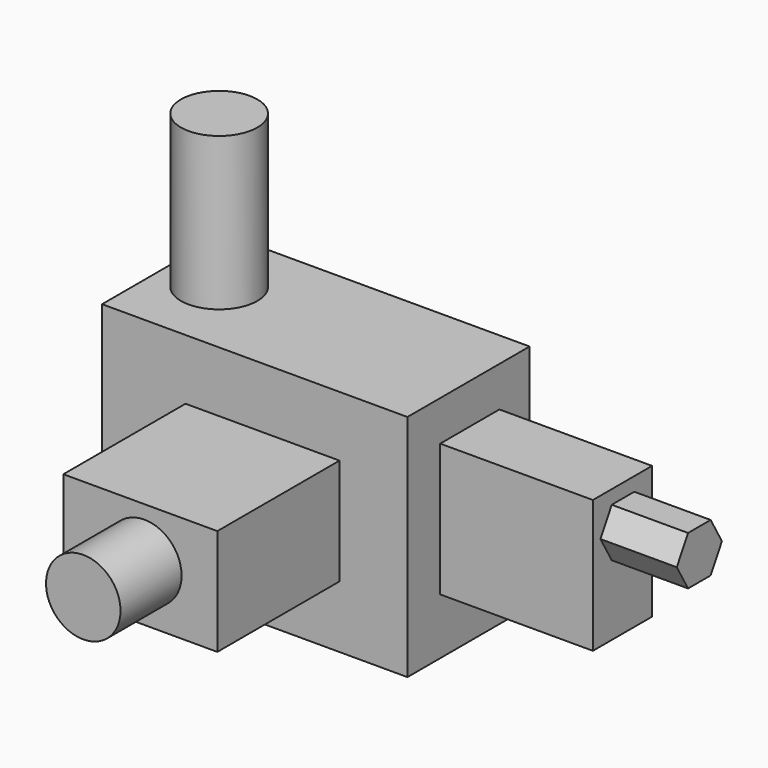
from build123d import *

# Parameters (mm, degrees)
F0_W      = 101.6
F0_H      = 50.8
F0_R      = 16.775178
F1_DEPTH  = 50.8
F2_R      = 1.27
F2_R_2    = 12.7
F1_FACE_W = 101.6
F1_FACE_H = 50.8
F3_DEPTH  = 25.4
F4_R      = 12.7
F5_DEPTH  = 50.8
F6_W      = 24.609506
F6_H      = 44.177586
F7_DEPTH  = 50.8
F9_DEPTH  = 25.4
F11_DEPTH = 50.8
F12_R     = 12.394387
F13_DEPTH = 25.4


with BuildPart() as f1:
    # F0 (on Top) → F1 (new body)
    with BuildSketch(Plane.XY):
        with Locations((-3.902643, -18.653006)):
            Rectangle(F0_W, F0_H)
        with Locations((-16.602643, -18.653006)):
            Circle(F0_R, mode=Mode.SUBTRACT)
        with Locations((-16.602643, -18.653006)):
            Circle(F0_R)
    extrude(amount=F1_DEPTH)

    # F2 (on Top) + F1_face (on face) → F3 (join)
    with BuildSketch(Plane.XY):
        with Locations((-54.476865, -17.57852)):
            Circle(F2_R)
        with Locations((-32.452784, -17.5102)):
            Circle(F2_R_2)
    with BuildSketch(Plane(origin=(-3.902643, -18.653006, 50.8), x_dir=(1, 0, 0), z_dir=(0, 0, 1))):
        Rectangle(F1_FACE_W, F1_FACE_H)
    extrude(amount=F3_DEPTH)

    # F4 (on face) → F5 (join)
    with BuildSketch(Plane.XY.offset(76.2)):
        with Locations((-37.034646, -17.442938)):
            Circle(F4_R)
    extrude(amount=F5_DEPTH)

    # F6 (on face) → F7 (join)
    with BuildSketch(Plane.YZ.offset(46.897357)):
        with Locations((-18.113753, 40.772016)):
            Rectangle(F6_W, F6_H)
    extrude(amount=F7_DEPTH)

    # F8 (on face) → F9 (join)
    with BuildSketch(Plane.YZ.offset(97.697357)):
        Polygon((-22.591917, 42.024732), (-13.205347, 42.024732), (-8.512062, 50.15374), (-13.205347, 58.282748), (-22.591917, 58.282748), (-27.285202, 50.15374), align=None)
    extrude(amount=F9_DEPTH)

    # F10 (on face) → F11 (join)
    with BuildSketch(Plane.XZ.offset(44.053006)):
        Polygon((24.291333, 56.072608), (-26.942033, 56.072608), (-26.942033, 20.681137), (9.460622, 20.681137), (24.291333, 20.681137), (24.291333, 32.478295), align=None)
    extrude(amount=F11_DEPTH)

    # F12 (on face) → F13 (join)
    with BuildSketch(Plane.XZ.offset(94.853006)):
        with Locations((0, 39.159566)):
            Circle(F12_R)
    extrude(amount=F13_DEPTH)


solid = f1.part
